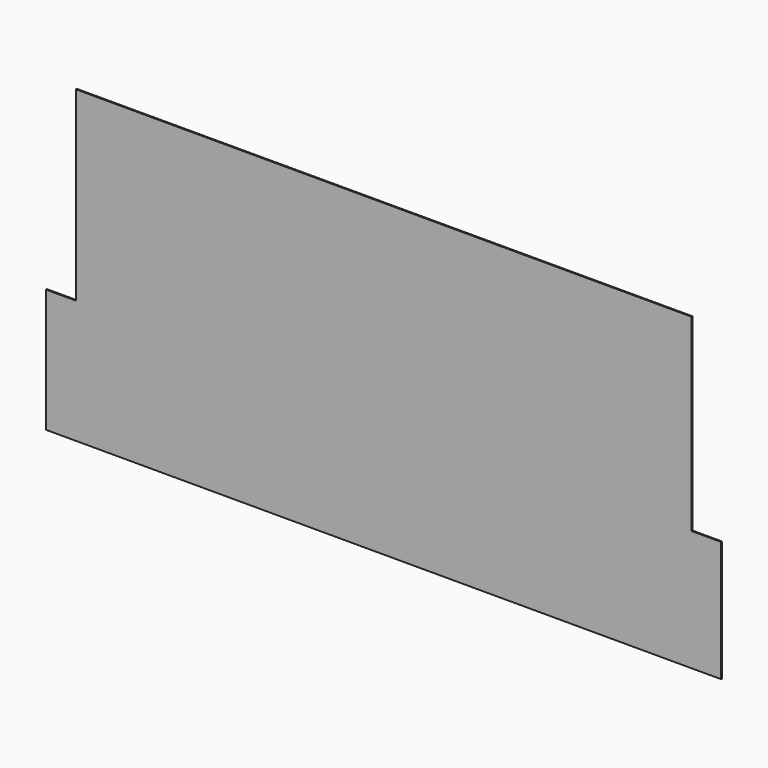
from build123d import *

# Parameters (mm, degrees)
F1_DEPTH = 2.3368


with BuildPart() as f1:
    # F0 (on Front) → F1 (new body)
    with BuildSketch(Plane.XZ):
        Polygon((1326.235613, 2.9e-05), (1.3e-05, 2.9e-05), (1.3e-05, -400.811971), (-64.261987, -400.811971), (-64.261987, -666.749971), (1389.888013, -666.749971), (1389.888013, -406.399971), (1326.235613, -406.399971), align=None)
    extrude(amount=F1_DEPTH)


solid = f1.part
